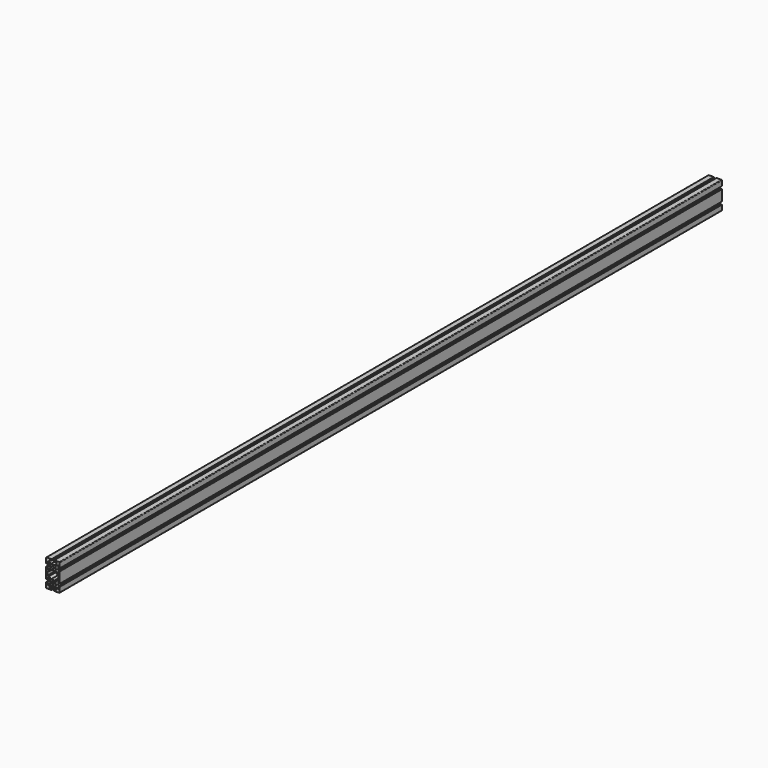
from build123d import *

# Parameters (mm, degrees)
F1_DEPTH = 2438.4


with BuildPart() as f1:
    # F0 (on Front) → F1 (new body)
    with BuildSketch(Plane.XZ):
        with BuildLine():
            ThreePointArc((20, 38.35), (19.516726, 39.516726), (18.35, 40))
            Line((18.35, 40), (4.065, 40))
            Line((4.065, 40), (4.065, 35.94))
            Line((4.065, 35.94), (10.285, 35.94))
            Line((10.285, 35.94), (10.285, 32.618452))
            Line((10.285, 32.618452), (5.346548, 27.68))
            Line((5.346548, 27.68), (-5.346548, 27.68))
            Line((-5.346548, 27.68), (-10.285, 32.618452))
            Line((-10.285, 32.618452), (-10.285, 35.94))
            Line((-10.285, 35.94), (-4.065, 35.94))
            Line((-4.065, 35.94), (-4.065, 40))
            Line((-4.065, 40), (-18.35, 40))
            ThreePointArc((-18.35, 40), (-19.516726, 39.516726), (-20, 38.35))
            Line((-20, 38.35), (-20, 24.065))
            Line((-20, 24.065), (-15.94, 24.065))
            Line((-15.94, 24.065), (-15.94, 30.285))
            Line((-15.94, 30.285), (-12.618452, 30.285))
            Line((-12.618452, 30.285), (-7.68, 25.346548))
            Line((-7.68, 25.346548), (-7.68, 14.653452))
            Line((-7.68, 14.653452), (-12.618452, 9.715))
            Line((-12.618452, 9.715), (-15.94, 9.715))
            Line((-15.94, 9.715), (-15.94, 15.935))
            Line((-15.94, 15.935), (-20, 15.935))
            Line((-20, 15.935), (-20, -15.935))
            Line((-20, -15.935), (-15.94, -15.935))
            Line((-15.94, -15.935), (-15.94, -9.715))
            Line((-15.94, -9.715), (-12.618452, -9.715))
            Line((-12.618452, -9.715), (-7.68, -14.653452))
            Line((-7.68, -14.653452), (-7.68, -25.346548))
            Line((-7.68, -25.346548), (-12.618452, -30.285))
            Line((-12.618452, -30.285), (-15.94, -30.285))
            Line((-15.94, -30.285), (-15.94, -24.065))
            Line((-15.94, -24.065), (-20, -24.065))
            Line((-20, -24.065), (-20, -38.35))
            ThreePointArc((-20, -38.35), (-19.516726, -39.516726), (-18.35, -40))
            Line((-18.35, -40), (-4.065, -40))
            Line((-4.065, -40), (-4.065, -35.94))
            Line((-4.065, -35.94), (-10.285, -35.94))
            Line((-10.285, -35.94), (-10.285, -32.618452))
            Line((-10.285, -32.618452), (-5.346548, -27.68))
            Line((-5.346548, -27.68), (5.346548, -27.68))
            Line((5.346548, -27.68), (10.285, -32.618452))
            Line((10.285, -32.618452), (10.285, -35.94))
            Line((10.285, -35.94), (4.065, -35.94))
            Line((4.065, -35.94), (4.065, -40))
            Line((4.065, -40), (18.35, -40))
            ThreePointArc((18.35, -40), (19.516726, -39.516726), (20, -38.35))
            Line((20, -38.35), (20, -24.065))
            Line((20, -24.065), (15.94, -24.065))
            Line((15.94, -24.065), (15.94, -30.285))
            Line((15.94, -30.285), (12.618452, -30.285))
            Line((12.618452, -30.285), (7.68, -25.346548))
            Line((7.68, -25.346548), (7.68, -14.653452))
            Line((7.68, -14.653452), (12.618452, -9.715))
            Line((12.618452, -9.715), (15.94, -9.715))
            Line((15.94, -9.715), (15.94, -15.935))
            Line((15.94, -15.935), (20, -15.935))
            Line((20, -15.935), (20, 15.935))
            Line((20, 15.935), (15.94, 15.935))
            Line((15.94, 15.935), (15.94, 9.715))
            Line((15.94, 9.715), (12.618452, 9.715))
            Line((12.618452, 9.715), (7.68, 14.653452))
            Line((7.68, 14.653452), (7.68, 25.346548))
            Line((7.68, 25.346548), (12.618452, 30.285))
            Line((12.618452, 30.285), (15.94, 30.285))
            Line((15.94, 30.285), (15.94, 24.065))
            Line((15.94, 24.065), (20, 24.065))
            Line((20, 24.065), (20, 38.35))
        make_face()
        with BuildLine():
            ThreePointArc((0, -23.405), (-3.405, -20), (0, -16.595))
            ThreePointArc((0, -16.595), (3.405, -20), (0, -23.405))
        make_face(mode=Mode.SUBTRACT)
        Polygon((-5.346548, 12.32), (5.346548, 12.32), (11.251548, 6.415), (15.94, 6.415), (15.94, -6.415), (11.251548, -6.415), (5.346548, -12.32), (-5.346548, -12.32), (-11.251548, -6.415), (-15.94, -6.415), (-15.94, 6.415), (-11.251548, 6.415), align=None, mode=Mode.SUBTRACT)
        with BuildLine():
            ThreePointArc((0, 23.405), (3.405, 20), (0, 16.595))
            ThreePointArc((0, 16.595), (-3.405, 20), (0, 23.405))
        make_face(mode=Mode.SUBTRACT)
    extrude(amount=-F1_DEPTH)


solid = f1.part
